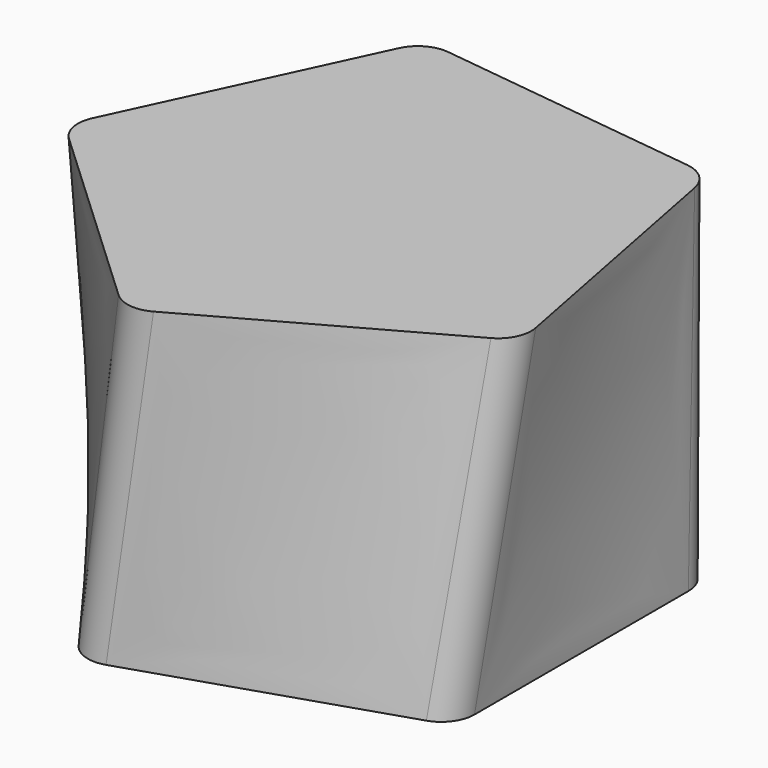
from build123d import *


with BuildPart() as f3:
    # F0 (on Top) → F3 section 0
    with BuildSketch(Plane.XY):
        with BuildLine():
            Line((32.708492, -20.131398), (32.708492, 20.131398))
            ThreePointArc((32.708492, 20.131398), (31.753577, 23.070324), (29.253577, 24.886681))
            Line((29.253577, 24.886681), (-9.038617, 37.328569))
            ThreePointArc((-9.038617, 37.328569), (-12.128787, 37.328569), (-14.628787, 35.512212))
            Line((-14.628787, 35.512212), (-38.294665, 2.938926))
            ThreePointArc((-38.294665, 2.938926), (-39.24958, 0), (-38.294665, -2.938926))
            Line((-38.294665, -2.938926), (-14.628787, -35.512212))
            ThreePointArc((-14.628787, -35.512212), (-12.128787, -37.328569), (-9.038617, -37.328569))
            Line((-9.038617, -37.328569), (29.253577, -24.886681))
            ThreePointArc((29.253577, -24.886681), (31.753577, -23.070324), (32.708492, -20.131398))
        make_face()
    # F2 (on offset) → F3 section 1
    with BuildSketch(Plane.XY.offset(50)):
        with BuildLine():
            Line((-20.298446, 31.882753), (-37.314239, -4.607732))
            ThreePointArc((-37.314239, -4.607732), (-37.690836, -7.674868), (-36.192692, -10.377592))
            Line((-36.192692, -10.377592), (-6.746347, -37.836753))
            ThreePointArc((-6.746347, -37.836753), (-3.945702, -39.142715), (-0.912307, -38.553083))
            Line((-0.912307, -38.553083), (34.302327, -19.033292))
            ThreePointArc((34.302327, -19.033292), (36.409818, -16.773285), (36.786415, -13.706148))
            Line((36.786415, -13.706148), (29.103911, 25.816906))
            ThreePointArc((29.103911, 25.816906), (27.605767, 28.51963), (24.805122, 29.825592))
            Line((24.805122, 29.825592), (-15.157561, 34.732393))
            ThreePointArc((-15.157561, 34.732393), (-18.190956, 34.142761), (-20.298446, 31.882753))
        make_face()
    loft()


solid = f3.part
